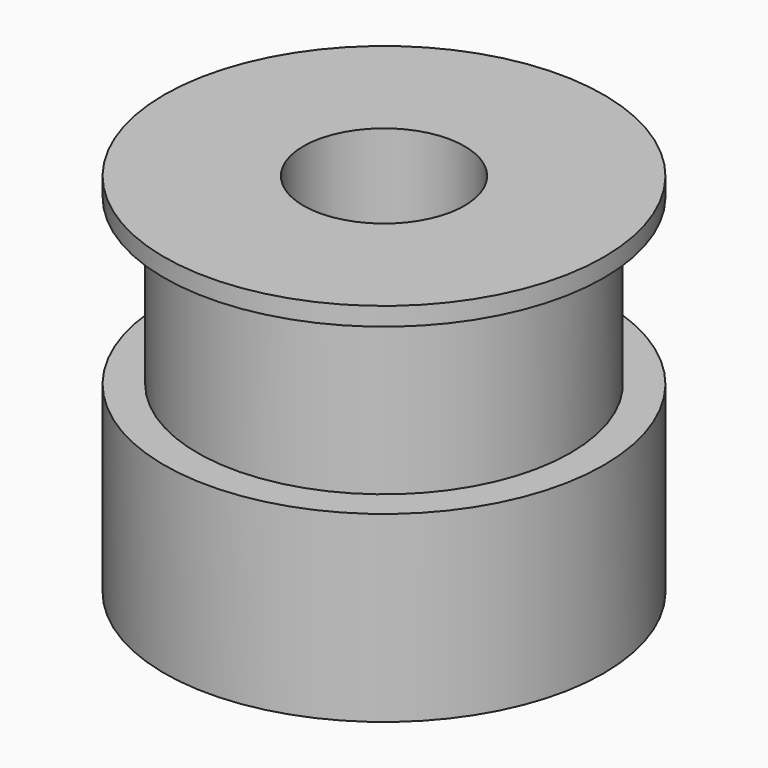
from build123d import *

# Parameters (mm, degrees)
F0_R     = 6
F0_R_2   = 5.0929581789
F1_DEPTH = 5
F2_DEPTH = 10
F3_R     = 6
F3_R_2   = 5.0929581789
F4_DEPTH = 0.5
F5_D     = 4.4


with BuildPart() as f1:
    # F0 (on Top) → F1 (new body)
    with BuildSketch(Plane.XY):
        Circle(F0_R)
        Circle(F0_R_2, mode=Mode.SUBTRACT)
        Circle(F0_R_2)
    extrude(amount=F1_DEPTH)

    # F0 (on Top) → F2 (join)
    with BuildSketch(Plane.XY):
        Circle(F0_R_2)
    extrude(amount=F2_DEPTH)

    # F3 (on face) → F4 (join)
    with BuildSketch(Plane.XY.offset(10)):
        Circle(F3_R)
        Circle(F3_R_2, mode=Mode.SUBTRACT)
        Circle(F3_R_2)
    extrude(amount=-F4_DEPTH)

    # F5 (through all)
    with Locations(Plane(origin=(0, 0, 0), x_dir=(1, 0, 0), z_dir=(0, 0, -1))):
        with Locations((0, 0)):
            Hole(F5_D / 2)


solid = f1.part
